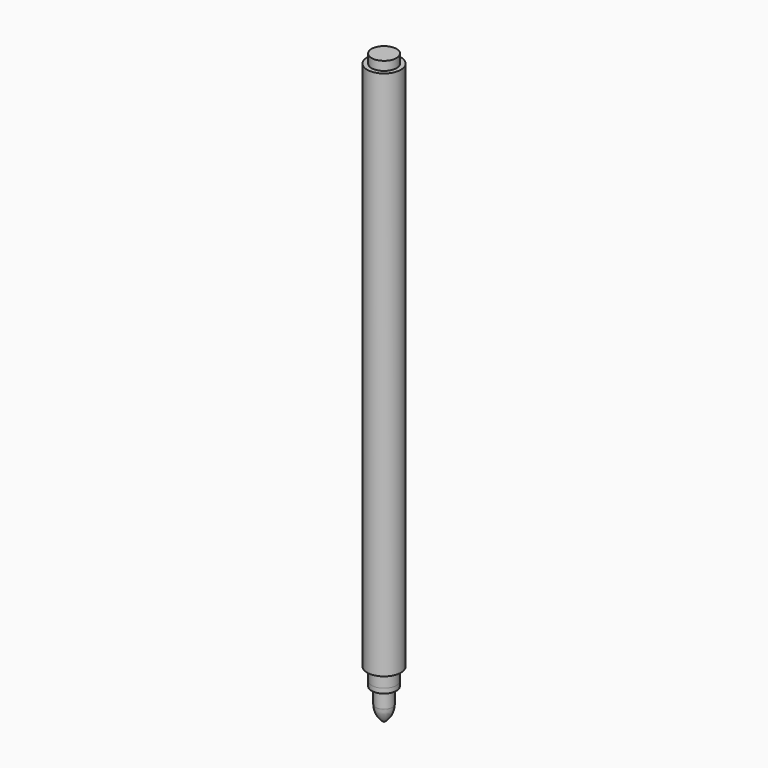
from build123d import *

# Parameters (mm, degrees)
F0_W   = 1.24273
F0_H   = 0.884634
F0_W_2 = 0.393905
F0_H_2 = 0.474494


with BuildPart() as f1:
    # F0 (on Front) → F1 (revolve)
    with BuildSketch(Plane.XZ):
        Polygon((0, 46.785887), (0, 1.344806), (0, -7.326513), (0.839225, -7.326513), (1.23313, -7.326513), (1.23313, -6.062125), (1.67845, -6.062125), (1.67845, 46.785887), (1.24273, 46.785887), align=None)
        with BuildLine():
            Line((0.839225, -7.326513), (0, -7.326513))
            Line((0, -7.326513), (0, -10.922992))
            ThreePointArc((0, -10.922992), (0.615929, -10.255166), (0.839225, -9.374542))
            Line((0.839225, -9.374542), (0.839225, -7.801007))
            Line((0.839225, -7.801007), (0.839225, -7.326513))
        make_face()
        with Locations((0.621365, 47.228204)):
            Rectangle(F0_W, F0_H)
        with Locations((1.036177, -7.56376)):
            Rectangle(F0_W_2, F0_H_2)
    revolve(axis=Axis((0, 0, 24.065347), (0, 0, -1)))


solid = f1.part
